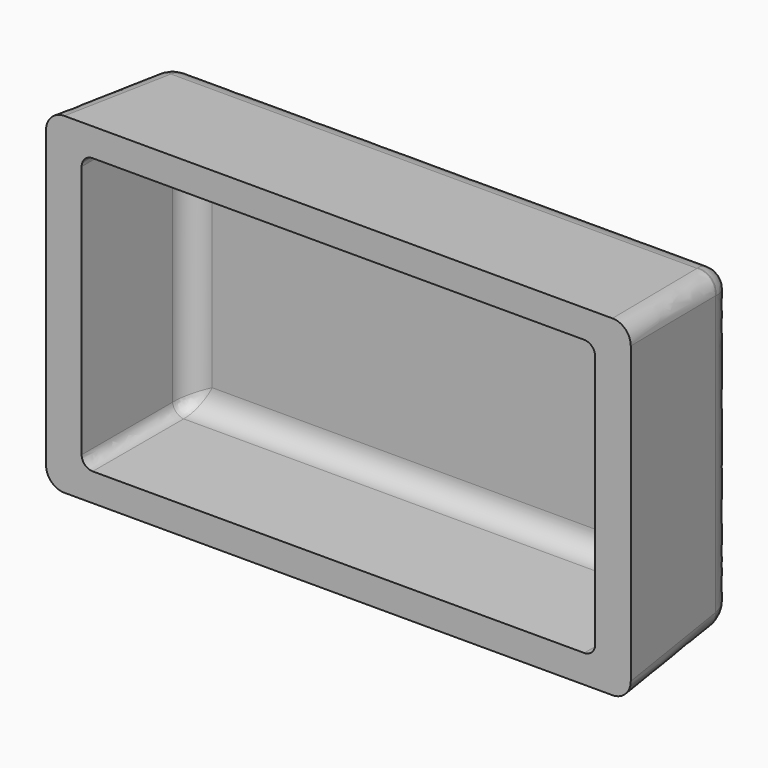
from build123d import *

# Parameters (mm, degrees)
SKETCH_W    = 152
SKETCH_H    = 85
SKETCH003_W = 159.394912
SKETCH003_H = 90.445878
SKETCH001_W = 140
SKETCH001_H = 75.159248
SKETCH002_W = 140
SKETCH002_H = 75.159248
FILLET_R    = 6
FILLET001_R = 8
FILLET002_R = 5
FILLET003_R = 3


with BuildPart() as part:
    # Sketch → AdditiveLoft section 0
    with BuildSketch(Plane.XZ):
        Rectangle(SKETCH_W, SKETCH_H)
    # Sketch003 → AdditiveLoft section 1
    with BuildSketch(Plane.XZ.offset(40)):
        Rectangle(SKETCH003_W, SKETCH003_H)
    loft()

    # Sketch001 → SubtractiveLoft section 0
    with BuildSketch(Plane.XZ.offset(3)):
        Rectangle(SKETCH001_W, SKETCH001_H)
    # Sketch002 → SubtractiveLoft section 1
    with BuildSketch(Plane.XZ.offset(40)):
        Rectangle(SKETCH002_W, SKETCH002_H)
    loft(mode=Mode.SUBTRACT)

    # Fillet
    fillet_edges = [part.edges().sort_by_distance(p)[0] for p in [
        (-70, -3, 0),
        (0, -3, 37.579624),
        (70, -3, 0),
        (0, -3, -37.579624),
    ]]
    fillet(fillet_edges, radius=FILLET_R)

    # Fillet001
    fillet001_edges = [part.edges().sort_by_distance(p)[0] for p in [
        (-76, 0, 0),
        (0, 0, 42.5),
        (76, 0, 0),
        (0, 0, -42.5),
    ]]
    fillet(fillet001_edges, radius=FILLET001_R)

    # Fillet002
    fillet002_edges = [part.edges().sort_by_distance(p)[0] for p in [
        (-78.193362, -23.728335, -44.11527),
        (78.193362, -23.728335, -44.11527),
        (-78.193362, -23.728335, 44.11527),
        (78.193362, -23.728335, 44.11527),
    ]]
    fillet(fillet002_edges, radius=FILLET002_R)

    # Fillet003
    fillet003_edges = [part.edges().sort_by_distance(p)[0] for p in [
        (70, -24.5, 37.579624),
        (-70, -24.5, 37.579624),
        (70, -24.5, -37.579624),
        (-70, -24.5, -37.579624),
    ]]
    fillet(fillet003_edges, radius=FILLET003_R)


solid = part.part
